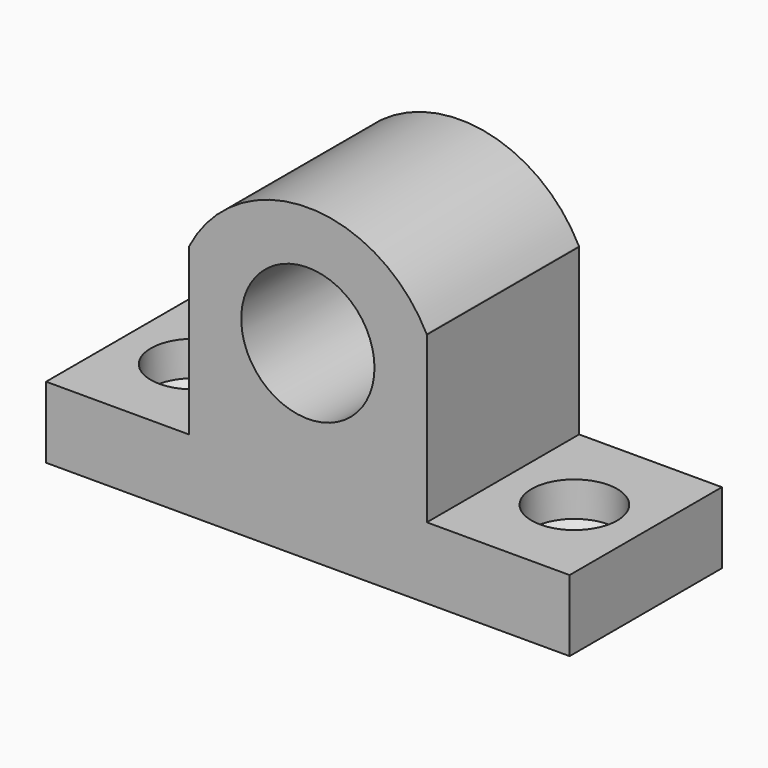
from build123d import *

# Parameters (mm, degrees)
F0_R     = 14
F1_DEPTH = 40
F3_D     = 18
F3_DEPTH = 7.3
F3_TIP   = 5.4077455712
F4_D     = 11
F4_DEPTH = 15
F4_TIP   = 3.3047334047


with BuildPart() as f1:
    # F0 (on Front) → F1 (new body)
    with BuildSketch(Plane.XZ):
        with BuildLine():
            Line((-55, 15), (-55, 0))
            Line((-55, 0), (55, 0))
            Line((55, 0), (55, 15))
            Line((55, 15), (25, 15))
            Line((25, 15), (25, 49.7154739381))
            Line((25, 49.7154739381), (24.9280575663, 49.8561188579))
            ThreePointArc((24.9280575663, 49.8561188579), (0, 65.1049641661), (-24.9280575663, 49.8561188579))
            Line((-24.9280575663, 49.8561188579), (-25, 49.7154739381))
            Line((-25, 49.7154739381), (-25, 15))
            Line((-25, 15), (-55, 15))
        make_face()
        with Locations((0, 40)):
            Circle(F0_R, mode=Mode.SUBTRACT)
    extrude(amount=F1_DEPTH)

    # F3
    with Locations(Plane.XY.offset(15)):
        with Locations((-40, -20), (40, -20)):
            Hole(F3_D / 2, depth=F3_DEPTH)
            with Locations((0, 0, -(F3_DEPTH + F3_TIP / 2))):  # 118° drill point
                Cone(0, F3_D / 2, F3_TIP, mode=Mode.SUBTRACT)

    # F4
    with Locations(Plane.XY.offset(15)):
        with Locations((-40, -20), (40, -20)):
            Hole(F4_D / 2, depth=F4_DEPTH)
            with Locations((0, 0, -(F4_DEPTH + F4_TIP / 2))):  # 118° drill point
                Cone(0, F4_D / 2, F4_TIP, mode=Mode.SUBTRACT)


solid = f1.part
